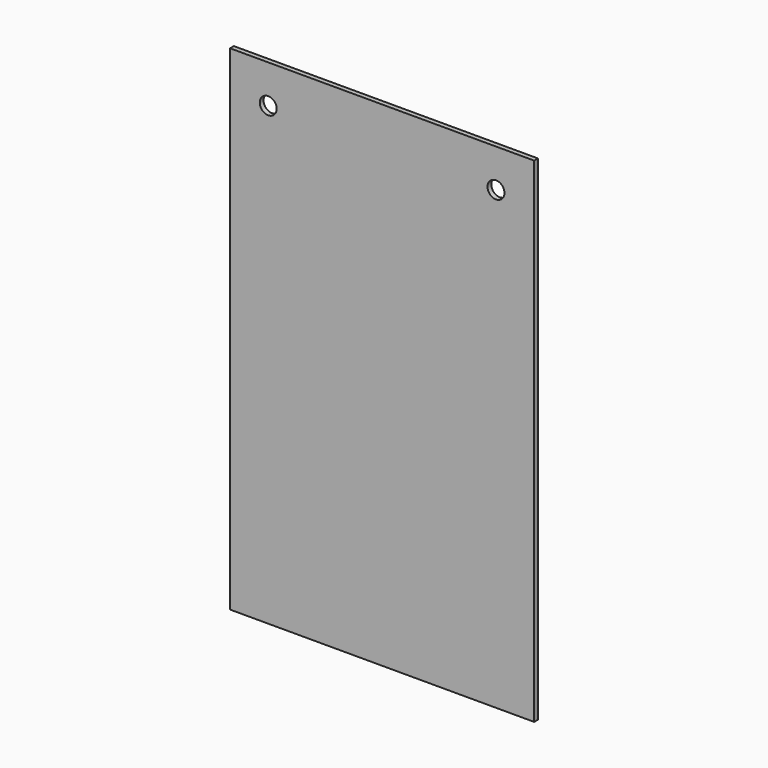
from build123d import *

# Parameters (mm, degrees)
F0_W     = 406.4
F0_H     = 660.4
F1_DEPTH = 6.35
F3_D     = 22.6314


with BuildPart() as f1:
    # F0 (on Front) → F1 (new body)
    with BuildSketch(Plane.XZ):
        with Locations((203.2, 330.2)):
            Rectangle(F0_W, F0_H)
    extrude(amount=F1_DEPTH)

    # F3 (through all)
    with Locations(Plane.XZ.offset(6.35)):
        with Locations((51, 609.4), (355.4, 609.4)):
            Hole(F3_D / 2)


solid = f1.part
